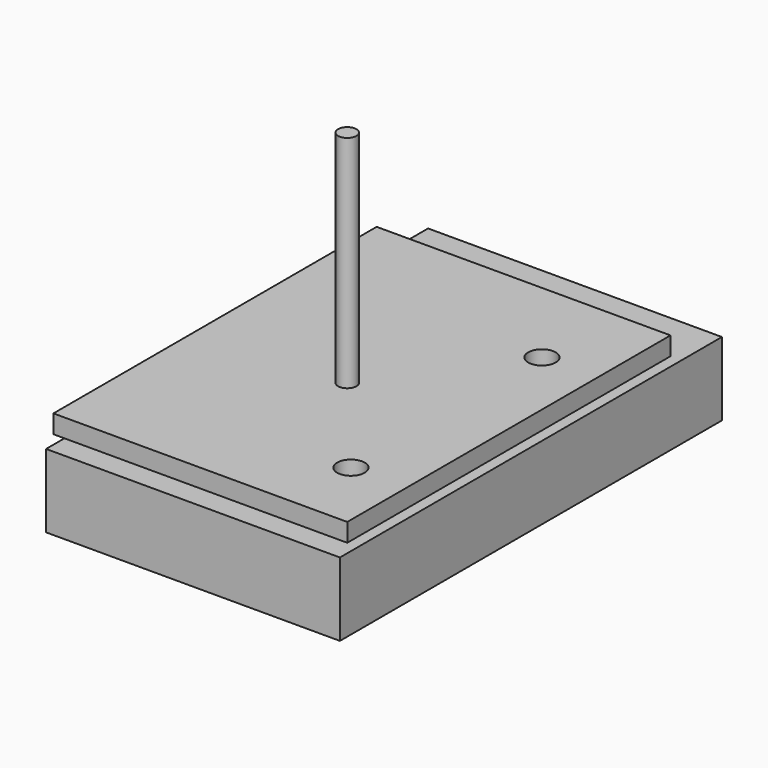
from build123d import *

# Parameters (mm, degrees)
F1_W     = 101.6
F1_H     = 165.1
F1_R     = 4.7625
F2_DEPTH = 25.4
F3_W     = 101.6
F3_H     = 139.7
F3_R     = 4.7625
F4_DEPTH = 6.35
F5_R     = 3.175
F6_DEPTH = 76.2


with BuildPart() as f2:
    # F1 (on Top) → F2 (new body)
    with BuildSketch(Plane.XY):
        with Locations((-50.8, 82.55)):
            Rectangle(F1_W, F1_H)
        with Locations((-19.05, 28.575)):
            Circle(F1_R, mode=Mode.SUBTRACT)
        with Locations((-19.05, 111.125)):
            Circle(F1_R, mode=Mode.SUBTRACT)
    extrude(amount=-F2_DEPTH)


with BuildPart() as f4:
    # F3 (on offset) → F4 (new body)
    with BuildSketch(Plane.XY.offset(3.175)):
        with Locations((-50.8, 73.025)):
            Rectangle(F3_W, F3_H)
        with Locations((-19.05, 28.575)):
            Circle(F3_R, mode=Mode.SUBTRACT)
        with Locations((-19.05, 111.125)):
            Circle(F3_R, mode=Mode.SUBTRACT)
    extrude(amount=F4_DEPTH)

    # F5 (on face) → F6 (join)
    with BuildSketch(Plane.XY.offset(9.525)):
        with Locations((-50.8, 66.675)):
            Circle(F5_R)
    extrude(amount=F6_DEPTH)


solid = Compound([f2.part, f4.part])
